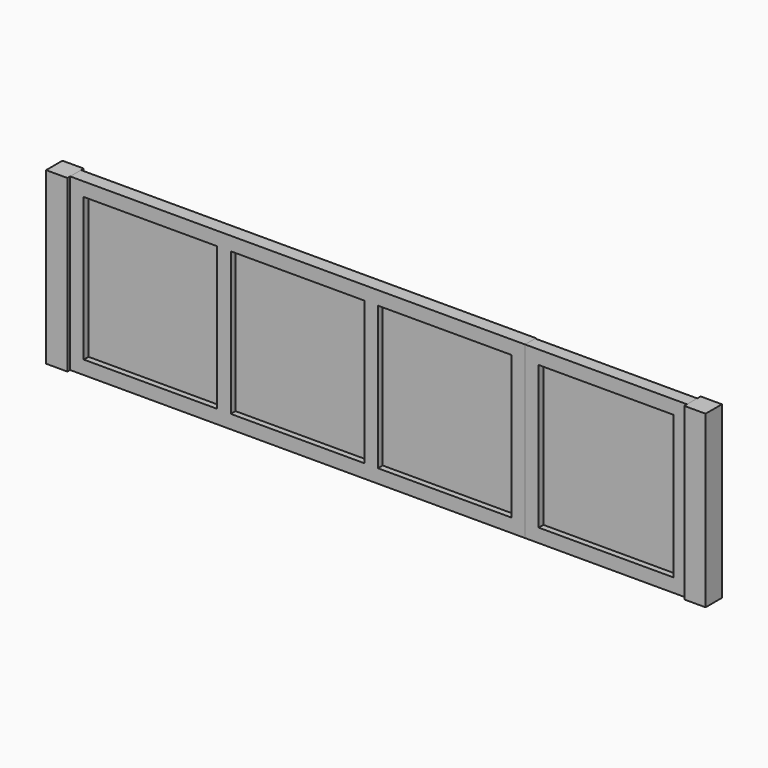
from build123d import *

# Parameters (mm, degrees)
F0_W     = 125
F0_H     = 1000
F1_DEPTH = 120
F0_W_2   = 2669
F0_W_3   = 782.54
F0_H_2   = 840
F0_W_4   = 783.23
F2_DEPTH = 100
F3_DEPTH = 65
F0_W_5   = 950
F0_W_6   = 790
F4_DEPTH = 100
F5_DEPTH = 65
F6_DEPTH = 25
F7_DEPTH = 55
F8_DEPTH = 20
F9_DEPTH = 55


with BuildPart() as f1:
    # F0 (on Front) → F1 (new body)
    with BuildSketch(Plane.XZ):
        with Locations((-3806.5, 500)):
            Rectangle(F0_W, F0_H)
        with Locations((-62.5, 500)):
            Rectangle(F0_W, F0_H)
    extrude(amount=F1_DEPTH)


with BuildPart() as f2:
    # F0 (on Front) → F2 (new body)
    with BuildSketch(Plane.XZ):
        with Locations((-2409.5, 500)):
            Rectangle(F0_W_2, F0_H)
        with Locations((-3272.73, 500)):
            Rectangle(F0_W_3, F0_H_2, mode=Mode.SUBTRACT)
        with Locations((-2409.845, 500)):
            Rectangle(F0_W_4, F0_H_2, mode=Mode.SUBTRACT)
        with Locations((-1546.615, 500)):
            Rectangle(F0_W_4, F0_H_2, mode=Mode.SUBTRACT)
    extrude(amount=F2_DEPTH)

    # F0 (on Front) → F8 (cut)
    with BuildSketch(Plane.XZ):
        with Locations((-2409.5, 500)):
            Rectangle(F0_W_2, F0_H)
        with Locations((-3272.73, 500)):
            Rectangle(F0_W_3, F0_H_2, mode=Mode.SUBTRACT)
        with Locations((-2409.845, 500)):
            Rectangle(F0_W_4, F0_H_2, mode=Mode.SUBTRACT)
        with Locations((-1546.615, 500)):
            Rectangle(F0_W_4, F0_H_2, mode=Mode.SUBTRACT)
    extrude(amount=F8_DEPTH, mode=Mode.SUBTRACT)


with BuildPart() as f3:
    # F0 (on Front) → F3 (new body)
    with BuildSketch(Plane.XZ):
        with Locations((-3272.73, 500)):
            Rectangle(F0_W_3, F0_H_2)
        with Locations((-2409.845, 500)):
            Rectangle(F0_W_4, F0_H_2)
        with Locations((-1546.615, 500)):
            Rectangle(F0_W_4, F0_H_2)
    extrude(amount=F3_DEPTH)

    # F0 (on Front) → F9 (cut)
    with BuildSketch(Plane.XZ):
        with Locations((-1546.615, 500)):
            Rectangle(F0_W_4, F0_H_2)
        with Locations((-2409.845, 500)):
            Rectangle(F0_W_4, F0_H_2)
        with Locations((-3272.73, 500)):
            Rectangle(F0_W_3, F0_H_2)
    extrude(amount=F9_DEPTH, mode=Mode.SUBTRACT)


with BuildPart() as f4:
    # F0 (on Front) → F4 (new body)
    with BuildSketch(Plane.XZ):
        with Locations((-600, 500)):
            Rectangle(F0_W_5, F0_H)
        with Locations((-600, 500)):
            Rectangle(F0_W_6, F0_H_2, mode=Mode.SUBTRACT)
    extrude(amount=F4_DEPTH)

    # F0 (on Front) → F6 (cut)
    with BuildSketch(Plane.XZ):
        with Locations((-600, 500)):
            Rectangle(F0_W_5, F0_H)
        with Locations((-600, 500)):
            Rectangle(F0_W_6, F0_H_2, mode=Mode.SUBTRACT)
    extrude(amount=F6_DEPTH, mode=Mode.SUBTRACT)


with BuildPart() as f5:
    # F0 (on Front) → F5 (new body)
    with BuildSketch(Plane.XZ):
        with Locations((-600, 500)):
            Rectangle(F0_W_6, F0_H_2)
    extrude(amount=F5_DEPTH)

    # F0 (on Front) → F7 (cut)
    with BuildSketch(Plane.XZ):
        with Locations((-600, 500)):
            Rectangle(F0_W_6, F0_H_2)
    extrude(amount=F7_DEPTH, mode=Mode.SUBTRACT)


solid = Compound([f1.part, f2.part, f3.part, f4.part, f5.part])
